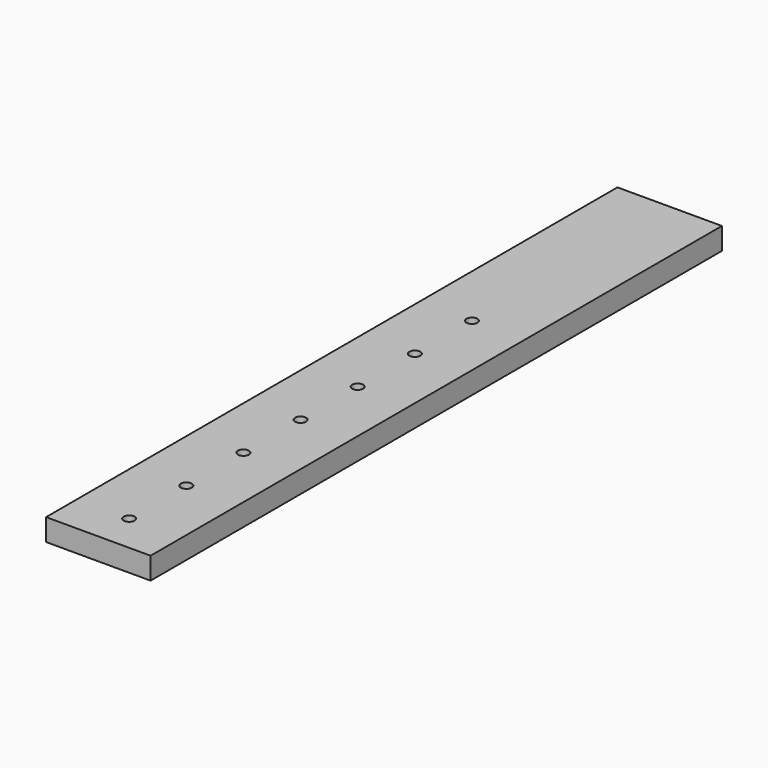
from build123d import *

# Parameters (mm, degrees)
F0_W     = 47.552642
F0_H     = 325
F0_R     = 2.5
F1_DEPTH = 10


with BuildPart() as f1:
    # F0 (on Top) → F1 (new body)
    with BuildSketch(Plane.XY):
        Rectangle(F0_W, F0_H)
        with Locations((0, -144.966932)):
            Circle(F0_R, mode=Mode.SUBTRACT)
        with Locations((0, -112.466932)):
            Circle(F0_R, mode=Mode.SUBTRACT)
        with Locations((0, -79.966932)):
            Circle(F0_R, mode=Mode.SUBTRACT)
        with Locations((0, -47.466932)):
            Circle(F0_R, mode=Mode.SUBTRACT)
        with Locations((0, -14.966932)):
            Circle(F0_R, mode=Mode.SUBTRACT)
        with Locations((0, 17.533068)):
            Circle(F0_R, mode=Mode.SUBTRACT)
        with Locations((0, 50.033068)):
            Circle(F0_R, mode=Mode.SUBTRACT)
    extrude(amount=F1_DEPTH)


solid = f1.part
